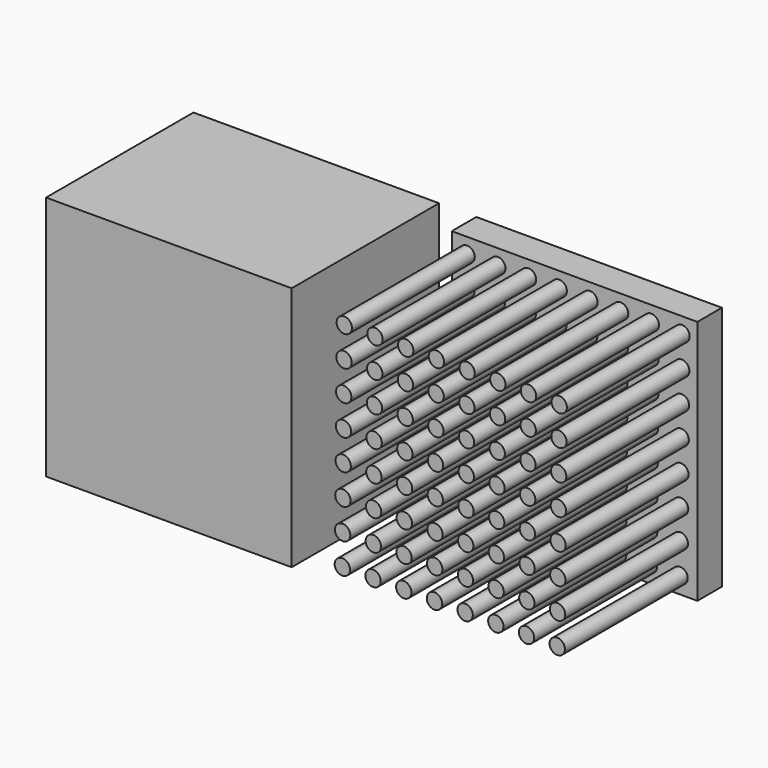
from build123d import *

# Parameters (mm, degrees)
F0_W     = 8
F0_H     = 8
F1_DEPTH = 1
F2_R     = 0.25
F3_DEPTH = 5
F4_W     = 8
F4_H     = 8
F5_DEPTH = 6


with BuildPart() as f1:
    # F0 (on Front) → F1 (new body)
    with BuildSketch(Plane.XZ):
        with Locations((4, 4)):
            Rectangle(F0_W, F0_H)
    extrude(amount=F1_DEPTH)

    # F2 (on face) → F3 (join)
    with BuildSketch(Plane.XZ.offset(1)):
        with Locations((0.5, 7.5)):
            Circle(F2_R)
        with Locations((1.5, 7.5)):
            Circle(F2_R)
        with Locations((2.5, 7.5)):
            Circle(F2_R)
        with Locations((3.5, 7.5)):
            Circle(F2_R)
        with Locations((4.5, 7.5)):
            Circle(F2_R)
        with Locations((5.5, 7.5)):
            Circle(F2_R)
        with Locations((6.5, 7.5)):
            Circle(F2_R)
        with Locations((7.5, 7.5)):
            Circle(F2_R)
        with Locations((0.490865, 6.506442)):
            Circle(F2_R)
        with Locations((1.490865, 6.506442)):
            Circle(F2_R)
        with Locations((2.490865, 6.506442)):
            Circle(F2_R)
        with Locations((3.490865, 6.506442)):
            Circle(F2_R)
        with Locations((4.490865, 6.506442)):
            Circle(F2_R)
        with Locations((5.490865, 6.506442)):
            Circle(F2_R)
        with Locations((6.490865, 6.506442)):
            Circle(F2_R)
        with Locations((7.490865, 6.506442)):
            Circle(F2_R)
        with Locations((0.48173, 5.512884)):
            Circle(F2_R)
        with Locations((1.48173, 5.512884)):
            Circle(F2_R)
        with Locations((2.48173, 5.512884)):
            Circle(F2_R)
        with Locations((3.48173, 5.512884)):
            Circle(F2_R)
        with Locations((4.48173, 5.512884)):
            Circle(F2_R)
        with Locations((5.48173, 5.512884)):
            Circle(F2_R)
        with Locations((6.48173, 5.512884)):
            Circle(F2_R)
        with Locations((7.48173, 5.512884)):
            Circle(F2_R)
        with Locations((0.472595, 4.519326)):
            Circle(F2_R)
        with Locations((1.472595, 4.519326)):
            Circle(F2_R)
        with Locations((2.472595, 4.519326)):
            Circle(F2_R)
        with Locations((3.472595, 4.519326)):
            Circle(F2_R)
        with Locations((4.472595, 4.519326)):
            Circle(F2_R)
        with Locations((5.472595, 4.519326)):
            Circle(F2_R)
        with Locations((6.472595, 4.519326)):
            Circle(F2_R)
        with Locations((7.472595, 4.519326)):
            Circle(F2_R)
        with Locations((0.46346, 3.525768)):
            Circle(F2_R)
        with Locations((1.46346, 3.525768)):
            Circle(F2_R)
        with Locations((2.46346, 3.525768)):
            Circle(F2_R)
        with Locations((3.46346, 3.525768)):
            Circle(F2_R)
        with Locations((4.46346, 3.525768)):
            Circle(F2_R)
        with Locations((5.46346, 3.525768)):
            Circle(F2_R)
        with Locations((6.46346, 3.525768)):
            Circle(F2_R)
        with Locations((7.46346, 3.525768)):
            Circle(F2_R)
        with Locations((0.454325, 2.53221)):
            Circle(F2_R)
        with Locations((1.454325, 2.53221)):
            Circle(F2_R)
        with Locations((2.454325, 2.53221)):
            Circle(F2_R)
        with Locations((3.454325, 2.53221)):
            Circle(F2_R)
        with Locations((4.454325, 2.53221)):
            Circle(F2_R)
        with Locations((5.454325, 2.53221)):
            Circle(F2_R)
        with Locations((6.454325, 2.53221)):
            Circle(F2_R)
        with Locations((7.454325, 2.53221)):
            Circle(F2_R)
        with Locations((0.44519, 1.538652)):
            Circle(F2_R)
        with Locations((1.44519, 1.538652)):
            Circle(F2_R)
        with Locations((2.44519, 1.538652)):
            Circle(F2_R)
        with Locations((3.44519, 1.538652)):
            Circle(F2_R)
        with Locations((4.44519, 1.538652)):
            Circle(F2_R)
        with Locations((5.44519, 1.538652)):
            Circle(F2_R)
        with Locations((6.44519, 1.538652)):
            Circle(F2_R)
        with Locations((7.44519, 1.538652)):
            Circle(F2_R)
        with Locations((0.436055, 0.545094)):
            Circle(F2_R)
        with Locations((1.436055, 0.545094)):
            Circle(F2_R)
        with Locations((2.436055, 0.545094)):
            Circle(F2_R)
        with Locations((3.436055, 0.545094)):
            Circle(F2_R)
        with Locations((4.436055, 0.545094)):
            Circle(F2_R)
        with Locations((5.436055, 0.545094)):
            Circle(F2_R)
        with Locations((6.436055, 0.545094)):
            Circle(F2_R)
        with Locations((7.436055, 0.545094)):
            Circle(F2_R)
    extrude(amount=F3_DEPTH)


with BuildPart() as f5:
    # F4 (on face) → F5 (new body)
    with BuildSketch(Plane(origin=(0, 0, 0), x_dir=(-1, 0, 0), z_dir=(0, 1, 0))):
        with Locations((5.213627, 4)):
            Rectangle(F4_W, F4_H)
    extrude(amount=-F5_DEPTH)


solid = Compound([f1.part, f5.part])
